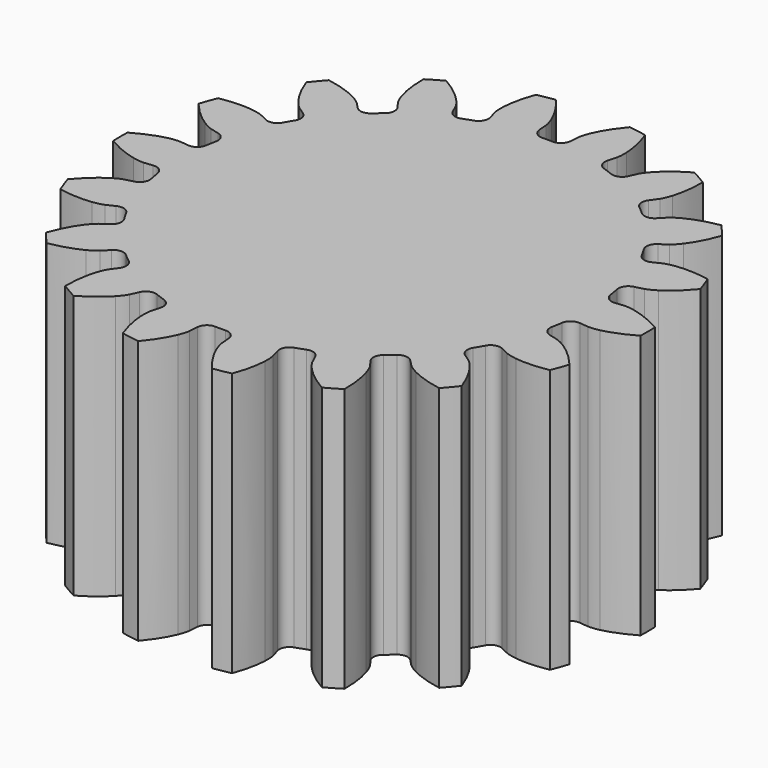
from build123d import *

# Parameters (mm, degrees)
PAD_DEPTH = 15


with BuildPart() as part:
    # InvoluteGear → Pad (new body)
    with BuildSketch(Plane.XY):
        with BuildLine():
            Line((12.131404, -1.243807), (12.645761, -1.295402))
            add(Edge.make_bspline(
                [(12.645761, -1.295402), (12.714302, -1.298033), (12.920518, -1.29727), (13.264938, -1.221824)],
                knots=[0, 0, 0, 0, 1, 1, 1, 1], degree=3))
            add(Edge.make_bspline(
                [(13.264938, -1.221824), (13.676607, -1.130119), (14.26795, -0.932555), (14.993012, -0.510488)],
                knots=[0, 0, 0, 0, 1, 1, 1, 1], degree=3))
            ThreePointArc((14.993012, -0.510488), (15.000851, 0.000345), (14.991288, 0.511149))
            add(Edge.make_bspline(
                [(14.991288, 0.511149), (14.26795, 0.932555), (13.676607, 1.130119), (13.264938, 1.221824)],
                knots=[0, 0, 0, 0, 1, 1, 1, 1], degree=3))
            add(Edge.make_bspline(
                [(13.264938, 1.221824), (12.920518, 1.29727), (12.714302, 1.298033), (12.645761, 1.295402)],
                knots=[0, 0, 0, 0, 1, 1, 1, 1], degree=3))
            Line((12.645761, 1.295402), (12.131404, 1.243807))
            ThreePointArc((12.131404, 1.243807), (11.716085, 1.354788), (11.496407, 1.724313))
            ThreePointArc((11.496407, 1.724313), (11.44839, 2.01866), (11.392838, 2.311679))
            ThreePointArc((11.392838, 2.311679), (11.472883, 2.734053), (11.825198, 2.980389))
            Line((11.825198, 2.980389), (12.326182, 3.107825))
            add(Edge.make_bspline(
                [(12.326182, 3.107825), (12.391489, 3.128796), (12.585008, 3.200042), (12.882853, 3.388737)],
                knots=[0, 0, 0, 0, 1, 1, 1, 1], degree=3))
            add(Edge.make_bspline(
                [(12.882853, 3.388737), (13.238331, 3.615711), (13.72644, 4.003611), (14.26342, 4.64821)],
                knots=[0, 0, 0, 0, 1, 1, 1, 1], degree=3))
            ThreePointArc((14.26342, 4.64821), (14.096071, 5.130917), (13.91238, 5.607645))
            add(Edge.make_bspline(
                [(13.91238, 5.607645), (13.088535, 5.756242), (12.465284, 5.73964), (12.047076, 5.685015)],
                knots=[0, 0, 0, 0, 1, 1, 1, 1], degree=3))
            add(Edge.make_bspline(
                [(12.047076, 5.685015), (11.697623, 5.638113), (11.503582, 5.568299), (11.440074, 5.542385)],
                knots=[0, 0, 0, 0, 1, 1, 1, 1], degree=3))
            Line((11.440074, 5.542385), (10.974384, 5.317981))
            ThreePointArc((10.974384, 5.317981), (10.546154, 5.280221), (10.213339, 5.552327))
            ThreePointArc((10.213339, 5.552327), (10.067545, 5.8125), (9.915125, 6.068848))
            ThreePointArc((9.915125, 6.068848), (9.845883, 6.493126), (10.092698, 6.845105))
            Line((10.092698, 6.845105), (10.519883, 7.136202))
            add(Edge.make_bspline(
                [(10.519883, 7.136202), (10.57408, 7.178245), (10.73156, 7.311383), (10.946905, 7.590566)],
                knots=[0, 0, 0, 0, 1, 1, 1, 1], degree=3))
            add(Edge.make_bspline(
                [(10.946905, 7.590566), (11.203316, 7.925433), (11.529319, 8.456883), (11.813449, 9.246266)],
                knots=[0, 0, 0, 0, 1, 1, 1, 1], degree=3))
            ThreePointArc((11.813449, 9.246266), (11.491096, 9.642625), (11.155433, 10.027777))
            add(Edge.make_bspline(
                [(11.155433, 10.027777), (10.330449, 9.885641), (9.750463, 9.656875), (9.376159, 9.462509)],
                knots=[0, 0, 0, 0, 1, 1, 1, 1], degree=3))
            add(Edge.make_bspline(
                [(9.376159, 9.462509), (9.063822, 9.298916), (8.905361, 9.166947), (8.854546, 9.120874)],
                knots=[0, 0, 0, 0, 1, 1, 1, 1], degree=3))
            Line((8.854546, 9.120874), (8.493691, 8.750728))
            ThreePointArc((8.493691, 8.750728), (8.104201, 8.568782), (7.698392, 8.710648))
            ThreePointArc((7.698392, 8.710648), (7.472406, 8.905267), (7.241502, 9.094024))
            ThreePointArc((7.241502, 9.094024), (7.031323, 9.469033), (7.14287, 9.884201))
            Line((7.14287, 9.884201), (7.444732, 10.303849))
            add(Edge.make_bspline(
                [(7.444732, 10.303849), (7.48128, 10.361892), (7.583728, 10.540862), (7.690599, 10.876861)],
                knots=[0, 0, 0, 0, 1, 1, 1, 1], degree=3))
            add(Edge.make_bspline(
                [(7.690599, 10.876861), (7.817015, 11.27923), (7.941592, 11.89013), (7.938602, 12.729085)],
                knots=[0, 0, 0, 0, 1, 1, 1, 1], degree=3))
            ThreePointArc((7.938602, 12.729085), (7.500126, 12.99129), (7.052976, 13.238411))
            add(Edge.make_bspline(
                [(7.052976, 13.238411), (6.326359, 12.822685), (5.859592, 12.409349), (5.574338, 12.098685)],
                knots=[0, 0, 0, 0, 1, 1, 1, 1], degree=3))
            add(Edge.make_bspline(
                [(5.574338, 12.098685), (5.33679, 11.838132), (5.233022, 11.659925), (5.201029, 11.599251)],
                knots=[0, 0, 0, 0, 1, 1, 1, 1], degree=3))
            Line((5.201029, 11.599251), (4.988534, 11.128008))
            ThreePointArc((4.988534, 11.128008), (4.684762, 10.823821), (4.254905, 10.818337))
            ThreePointArc((4.254905, 10.818337), (3.975984, 10.923927), (3.694447, 11.022327))
            ThreePointArc((3.694447, 11.022327), (3.368682, 11.302835), (3.331507, 11.731116))
            Line((3.331507, 11.731116), (3.471636, 12.228699))
            add(Edge.make_bspline(
                [(3.471636, 12.228699), (3.486128, 12.295742), (3.521186, 12.498958), (3.506694, 12.851246)],
                knots=[0, 0, 0, 0, 1, 1, 1, 1], degree=3))
            add(Edge.make_bspline(
                [(3.506694, 12.851246), (3.487868, 13.272586), (3.395991, 13.889252), (3.106242, 14.676589)],
                knots=[0, 0, 0, 0, 1, 1, 1, 1], degree=3))
            ThreePointArc((3.106242, 14.676589), (2.604531, 14.773014), (2.099827, 14.852297))
            add(Edge.make_bspline(
                [(2.099827, 14.852297), (1.559216, 14.213125), (1.261968, 13.665072), (1.100171, 13.275581)],
                knots=[0, 0, 0, 0, 1, 1, 1, 1], degree=3))
            add(Edge.make_bspline(
                [(1.100171, 13.275581), (0.966063, 12.949495), (0.929503, 12.746544), (0.920191, 12.678587)],
                knots=[0, 0, 0, 0, 1, 1, 1, 1], degree=3))
            Line((0.920191, 12.678587), (0.881686, 12.163086))
            ThreePointArc((0.881686, 12.163086), (0.700271, 11.773348), (0.298214, 11.621174))
            ThreePointArc((0.298214, 11.621174), (0, 11.625), (-0.298214, 11.621174))
            ThreePointArc((-0.298214, 11.621174), (-0.700271, 11.773348), (-0.881686, 12.163086))
            Line((-0.881686, 12.163086), (-0.920191, 12.678587))
            add(Edge.make_bspline(
                [(-0.920191, 12.678587), (-0.929503, 12.746544), (-0.966063, 12.949495), (-1.100171, 13.275581)],
                knots=[0, 0, 0, 0, 1, 1, 1, 1], degree=3))
            add(Edge.make_bspline(
                [(-1.100171, 13.275581), (-1.261968, 13.665072), (-1.559216, 14.213125), (-2.100777, 14.85388)],
                knots=[0, 0, 0, 0, 1, 1, 1, 1], degree=3))
            ThreePointArc((-2.100777, 14.85388), (-2.60521, 14.772894), (-3.106593, 14.674777))
            add(Edge.make_bspline(
                [(-3.106593, 14.674777), (-3.395991, 13.889252), (-3.487868, 13.272586), (-3.506694, 12.851246)],
                knots=[0, 0, 0, 0, 1, 1, 1, 1], degree=3))
            add(Edge.make_bspline(
                [(-3.506694, 12.851246), (-3.521186, 12.498958), (-3.486128, 12.295742), (-3.471636, 12.228699)],
                knots=[0, 0, 0, 0, 1, 1, 1, 1], degree=3))
            Line((-3.471636, 12.228699), (-3.331507, 11.731116))
            ThreePointArc((-3.331507, 11.731116), (-3.368682, 11.302835), (-3.694447, 11.022327))
            ThreePointArc((-3.694447, 11.022327), (-3.975984, 10.923927), (-4.254905, 10.818337))
            ThreePointArc((-4.254905, 10.818337), (-4.684762, 10.823821), (-4.988534, 11.128008))
            Line((-4.988534, 11.128008), (-5.201029, 11.599251))
            add(Edge.make_bspline(
                [(-5.201029, 11.599251), (-5.233022, 11.659925), (-5.33679, 11.838132), (-5.574338, 12.098685)],
                knots=[0, 0, 0, 0, 1, 1, 1, 1], degree=3))
            add(Edge.make_bspline(
                [(-5.574338, 12.098685), (-5.859592, 12.409349), (-6.326359, 12.822685), (-7.05441, 13.239573)],
                knots=[0, 0, 0, 0, 1, 1, 1, 1], degree=3))
            ThreePointArc((-7.05441, 13.239573), (-7.500724, 12.990945), (-7.938312, 12.727262))
            add(Edge.make_bspline(
                [(-7.938312, 12.727262), (-7.941592, 11.89013), (-7.817015, 11.27923), (-7.690599, 10.876861)],
                knots=[0, 0, 0, 0, 1, 1, 1, 1], degree=3))
            add(Edge.make_bspline(
                [(-7.690599, 10.876861), (-7.583728, 10.540862), (-7.48128, 10.361892), (-7.444732, 10.303849)],
                knots=[0, 0, 0, 0, 1, 1, 1, 1], degree=3))
            Line((-7.444732, 10.303849), (-7.14287, 9.884201))
            ThreePointArc((-7.14287, 9.884201), (-7.031323, 9.469033), (-7.241502, 9.094024))
            ThreePointArc((-7.241502, 9.094024), (-7.472406, 8.905267), (-7.698392, 8.710648))
            ThreePointArc((-7.698392, 8.710648), (-8.104201, 8.568782), (-8.493691, 8.750728))
            Line((-8.493691, 8.750728), (-8.854546, 9.120874))
            add(Edge.make_bspline(
                [(-8.854546, 9.120874), (-8.905361, 9.166947), (-9.063822, 9.298916), (-9.376159, 9.462509)],
                knots=[0, 0, 0, 0, 1, 1, 1, 1], degree=3))
            add(Edge.make_bspline(
                [(-9.376159, 9.462509), (-9.750463, 9.656875), (-10.330449, 9.885641), (-11.157178, 10.028379)],
                knots=[0, 0, 0, 0, 1, 1, 1, 1], degree=3))
            ThreePointArc((-11.157178, 10.028379), (-11.49154, 9.642097), (-11.812553, 9.244652))
            add(Edge.make_bspline(
                [(-11.812553, 9.244652), (-11.529319, 8.456883), (-11.203316, 7.925433), (-10.946905, 7.590566)],
                knots=[0, 0, 0, 0, 1, 1, 1, 1], degree=3))
            add(Edge.make_bspline(
                [(-10.946905, 7.590566), (-10.73156, 7.311383), (-10.57408, 7.178245), (-10.519883, 7.136202)],
                knots=[0, 0, 0, 0, 1, 1, 1, 1], degree=3))
            Line((-10.519883, 7.136202), (-10.092698, 6.845105))
            ThreePointArc((-10.092698, 6.845105), (-9.845883, 6.493126), (-9.915125, 6.068848))
            ThreePointArc((-9.915125, 6.068848), (-10.067545, 5.8125), (-10.213339, 5.552327))
            ThreePointArc((-10.213339, 5.552327), (-10.546154, 5.280221), (-10.974384, 5.317981))
            Line((-10.974384, 5.317981), (-11.440074, 5.542385))
            add(Edge.make_bspline(
                [(-11.440074, 5.542385), (-11.503582, 5.568299), (-11.697623, 5.638113), (-12.047076, 5.685015)],
                knots=[0, 0, 0, 0, 1, 1, 1, 1], degree=3))
            add(Edge.make_bspline(
                [(-12.047076, 5.685015), (-12.465284, 5.73964), (-13.088535, 5.756242), (-13.914226, 5.607614)],
                knots=[0, 0, 0, 0, 1, 1, 1, 1], degree=3))
            ThreePointArc((-13.914226, 5.607614), (-14.096307, 5.130269), (-14.262026, 4.647))
            add(Edge.make_bspline(
                [(-14.262026, 4.647), (-13.72644, 4.003611), (-13.238331, 3.615711), (-12.882853, 3.388737)],
                knots=[0, 0, 0, 0, 1, 1, 1, 1], degree=3))
            add(Edge.make_bspline(
                [(-12.882853, 3.388737), (-12.585008, 3.200042), (-12.391489, 3.128796), (-12.326182, 3.107825)],
                knots=[0, 0, 0, 0, 1, 1, 1, 1], degree=3))
            Line((-12.326182, 3.107825), (-11.825198, 2.980389))
            ThreePointArc((-11.825198, 2.980389), (-11.472883, 2.734053), (-11.392838, 2.311679))
            ThreePointArc((-11.392838, 2.311679), (-11.44839, 2.01866), (-11.496407, 1.724313))
            ThreePointArc((-11.496407, 1.724313), (-11.716085, 1.354788), (-12.131404, 1.243807))
            Line((-12.131404, 1.243807), (-12.645761, 1.295402))
            add(Edge.make_bspline(
                [(-12.645761, 1.295402), (-12.714302, 1.298033), (-12.920518, 1.29727), (-13.264938, 1.221824)],
                knots=[0, 0, 0, 0, 1, 1, 1, 1], degree=3))
            add(Edge.make_bspline(
                [(-13.264938, 1.221824), (-13.676607, 1.130119), (-14.26795, 0.932555), (-14.993012, 0.510488)],
                knots=[0, 0, 0, 0, 1, 1, 1, 1], degree=3))
            ThreePointArc((-14.993012, 0.510488), (-15.000851, -0.000345), (-14.991288, -0.511149))
            add(Edge.make_bspline(
                [(-14.991288, -0.511149), (-14.26795, -0.932555), (-13.676607, -1.130119), (-13.264938, -1.221824)],
                knots=[0, 0, 0, 0, 1, 1, 1, 1], degree=3))
            add(Edge.make_bspline(
                [(-13.264938, -1.221824), (-12.920518, -1.29727), (-12.714302, -1.298033), (-12.645761, -1.295402)],
                knots=[0, 0, 0, 0, 1, 1, 1, 1], degree=3))
            Line((-12.645761, -1.295402), (-12.131404, -1.243807))
            ThreePointArc((-12.131404, -1.243807), (-11.716085, -1.354788), (-11.496407, -1.724313))
            ThreePointArc((-11.496407, -1.724313), (-11.44839, -2.01866), (-11.392838, -2.311679))
            ThreePointArc((-11.392838, -2.311679), (-11.472883, -2.734053), (-11.825198, -2.980389))
            Line((-11.825198, -2.980389), (-12.326182, -3.107825))
            add(Edge.make_bspline(
                [(-12.326182, -3.107825), (-12.391489, -3.128796), (-12.585008, -3.200042), (-12.882853, -3.388737)],
                knots=[0, 0, 0, 0, 1, 1, 1, 1], degree=3))
            add(Edge.make_bspline(
                [(-12.882853, -3.388737), (-13.238331, -3.615711), (-13.72644, -4.003611), (-14.26342, -4.64821)],
                knots=[0, 0, 0, 0, 1, 1, 1, 1], degree=3))
            ThreePointArc((-14.26342, -4.64821), (-14.096071, -5.130917), (-13.91238, -5.607645))
            add(Edge.make_bspline(
                [(-13.91238, -5.607645), (-13.088535, -5.756242), (-12.465284, -5.73964), (-12.047076, -5.685015)],
                knots=[0, 0, 0, 0, 1, 1, 1, 1], degree=3))
            add(Edge.make_bspline(
                [(-12.047076, -5.685015), (-11.697623, -5.638113), (-11.503582, -5.568299), (-11.440074, -5.542385)],
                knots=[0, 0, 0, 0, 1, 1, 1, 1], degree=3))
            Line((-11.440074, -5.542385), (-10.974384, -5.317981))
            ThreePointArc((-10.974384, -5.317981), (-10.546154, -5.280221), (-10.213339, -5.552327))
            ThreePointArc((-10.213339, -5.552327), (-10.067545, -5.8125), (-9.915125, -6.068848))
            ThreePointArc((-9.915125, -6.068848), (-9.845883, -6.493126), (-10.092698, -6.845105))
            Line((-10.092698, -6.845105), (-10.519883, -7.136202))
            add(Edge.make_bspline(
                [(-10.519883, -7.136202), (-10.57408, -7.178245), (-10.73156, -7.311383), (-10.946905, -7.590566)],
                knots=[0, 0, 0, 0, 1, 1, 1, 1], degree=3))
            add(Edge.make_bspline(
                [(-10.946905, -7.590566), (-11.203316, -7.925433), (-11.529319, -8.456883), (-11.813449, -9.246266)],
                knots=[0, 0, 0, 0, 1, 1, 1, 1], degree=3))
            ThreePointArc((-11.813449, -9.246266), (-11.491096, -9.642625), (-11.155433, -10.027777))
            add(Edge.make_bspline(
                [(-11.155433, -10.027777), (-10.330449, -9.885641), (-9.750463, -9.656875), (-9.376159, -9.462509)],
                knots=[0, 0, 0, 0, 1, 1, 1, 1], degree=3))
            add(Edge.make_bspline(
                [(-9.376159, -9.462509), (-9.063822, -9.298916), (-8.905361, -9.166947), (-8.854546, -9.120874)],
                knots=[0, 0, 0, 0, 1, 1, 1, 1], degree=3))
            Line((-8.854546, -9.120874), (-8.493691, -8.750728))
            ThreePointArc((-8.493691, -8.750728), (-8.104201, -8.568782), (-7.698392, -8.710648))
            ThreePointArc((-7.698392, -8.710648), (-7.472406, -8.905267), (-7.241502, -9.094024))
            ThreePointArc((-7.241502, -9.094024), (-7.031323, -9.469033), (-7.14287, -9.884201))
            Line((-7.14287, -9.884201), (-7.444732, -10.303849))
            add(Edge.make_bspline(
                [(-7.444732, -10.303849), (-7.48128, -10.361892), (-7.583728, -10.540862), (-7.690599, -10.876861)],
                knots=[0, 0, 0, 0, 1, 1, 1, 1], degree=3))
            add(Edge.make_bspline(
                [(-7.690599, -10.876861), (-7.817015, -11.27923), (-7.941592, -11.89013), (-7.938602, -12.729085)],
                knots=[0, 0, 0, 0, 1, 1, 1, 1], degree=3))
            ThreePointArc((-7.938602, -12.729085), (-7.500126, -12.99129), (-7.052976, -13.238411))
            add(Edge.make_bspline(
                [(-7.052976, -13.238411), (-6.326359, -12.822685), (-5.859592, -12.409349), (-5.574338, -12.098685)],
                knots=[0, 0, 0, 0, 1, 1, 1, 1], degree=3))
            add(Edge.make_bspline(
                [(-5.574338, -12.098685), (-5.33679, -11.838132), (-5.233022, -11.659925), (-5.201029, -11.599251)],
                knots=[0, 0, 0, 0, 1, 1, 1, 1], degree=3))
            Line((-5.201029, -11.599251), (-4.988534, -11.128008))
            ThreePointArc((-4.988534, -11.128008), (-4.684762, -10.823821), (-4.254905, -10.818337))
            ThreePointArc((-4.254905, -10.818337), (-3.975984, -10.923927), (-3.694447, -11.022327))
            ThreePointArc((-3.694447, -11.022327), (-3.368682, -11.302835), (-3.331507, -11.731116))
            Line((-3.331507, -11.731116), (-3.471636, -12.228699))
            add(Edge.make_bspline(
                [(-3.471636, -12.228699), (-3.486128, -12.295742), (-3.521186, -12.498958), (-3.506694, -12.851246)],
                knots=[0, 0, 0, 0, 1, 1, 1, 1], degree=3))
            add(Edge.make_bspline(
                [(-3.506694, -12.851246), (-3.487868, -13.272586), (-3.395991, -13.889252), (-3.106242, -14.676589)],
                knots=[0, 0, 0, 0, 1, 1, 1, 1], degree=3))
            ThreePointArc((-3.106242, -14.676589), (-2.604531, -14.773014), (-2.099827, -14.852297))
            add(Edge.make_bspline(
                [(-2.099827, -14.852297), (-1.559216, -14.213125), (-1.261968, -13.665072), (-1.100171, -13.275581)],
                knots=[0, 0, 0, 0, 1, 1, 1, 1], degree=3))
            add(Edge.make_bspline(
                [(-1.100171, -13.275581), (-0.966063, -12.949495), (-0.929503, -12.746544), (-0.920191, -12.678587)],
                knots=[0, 0, 0, 0, 1, 1, 1, 1], degree=3))
            Line((-0.920191, -12.678587), (-0.881686, -12.163086))
            ThreePointArc((-0.881686, -12.163086), (-0.700271, -11.773348), (-0.298214, -11.621174))
            ThreePointArc((-0.298214, -11.621174), (0, -11.625), (0.298214, -11.621174))
            ThreePointArc((0.298214, -11.621174), (0.700271, -11.773348), (0.881686, -12.163086))
            Line((0.881686, -12.163086), (0.920191, -12.678587))
            add(Edge.make_bspline(
                [(0.920191, -12.678587), (0.929503, -12.746544), (0.966063, -12.949495), (1.100171, -13.275581)],
                knots=[0, 0, 0, 0, 1, 1, 1, 1], degree=3))
            add(Edge.make_bspline(
                [(1.100171, -13.275581), (1.261968, -13.665072), (1.559216, -14.213125), (2.100777, -14.85388)],
                knots=[0, 0, 0, 0, 1, 1, 1, 1], degree=3))
            ThreePointArc((2.100777, -14.85388), (2.60521, -14.772894), (3.106593, -14.674777))
            add(Edge.make_bspline(
                [(3.106593, -14.674777), (3.395991, -13.889252), (3.487868, -13.272586), (3.506694, -12.851246)],
                knots=[0, 0, 0, 0, 1, 1, 1, 1], degree=3))
            add(Edge.make_bspline(
                [(3.506694, -12.851246), (3.521186, -12.498958), (3.486128, -12.295742), (3.471636, -12.228699)],
                knots=[0, 0, 0, 0, 1, 1, 1, 1], degree=3))
            Line((3.471636, -12.228699), (3.331507, -11.731116))
            ThreePointArc((3.331507, -11.731116), (3.368682, -11.302835), (3.694447, -11.022327))
            ThreePointArc((3.694447, -11.022327), (3.975984, -10.923927), (4.254905, -10.818337))
            ThreePointArc((4.254905, -10.818337), (4.684762, -10.823821), (4.988534, -11.128008))
            Line((4.988534, -11.128008), (5.201029, -11.599251))
            add(Edge.make_bspline(
                [(5.201029, -11.599251), (5.233022, -11.659925), (5.33679, -11.838132), (5.574338, -12.098685)],
                knots=[0, 0, 0, 0, 1, 1, 1, 1], degree=3))
            add(Edge.make_bspline(
                [(5.574338, -12.098685), (5.859592, -12.409349), (6.326359, -12.822685), (7.05441, -13.239573)],
                knots=[0, 0, 0, 0, 1, 1, 1, 1], degree=3))
            ThreePointArc((7.05441, -13.239573), (7.500724, -12.990945), (7.938312, -12.727262))
            add(Edge.make_bspline(
                [(7.938312, -12.727262), (7.941592, -11.89013), (7.817015, -11.27923), (7.690599, -10.876861)],
                knots=[0, 0, 0, 0, 1, 1, 1, 1], degree=3))
            add(Edge.make_bspline(
                [(7.690599, -10.876861), (7.583728, -10.540862), (7.48128, -10.361892), (7.444732, -10.303849)],
                knots=[0, 0, 0, 0, 1, 1, 1, 1], degree=3))
            Line((7.444732, -10.303849), (7.14287, -9.884201))
            ThreePointArc((7.14287, -9.884201), (7.031323, -9.469033), (7.241502, -9.094024))
            ThreePointArc((7.241502, -9.094024), (7.472406, -8.905267), (7.698392, -8.710648))
            ThreePointArc((7.698392, -8.710648), (8.104201, -8.568782), (8.493691, -8.750728))
            Line((8.493691, -8.750728), (8.854546, -9.120874))
            add(Edge.make_bspline(
                [(8.854546, -9.120874), (8.905361, -9.166947), (9.063822, -9.298916), (9.376159, -9.462509)],
                knots=[0, 0, 0, 0, 1, 1, 1, 1], degree=3))
            add(Edge.make_bspline(
                [(9.376159, -9.462509), (9.750463, -9.656875), (10.330449, -9.885641), (11.157178, -10.028379)],
                knots=[0, 0, 0, 0, 1, 1, 1, 1], degree=3))
            ThreePointArc((11.157178, -10.028379), (11.49154, -9.642097), (11.812553, -9.244652))
            add(Edge.make_bspline(
                [(11.812553, -9.244652), (11.529319, -8.456883), (11.203316, -7.925433), (10.946905, -7.590566)],
                knots=[0, 0, 0, 0, 1, 1, 1, 1], degree=3))
            add(Edge.make_bspline(
                [(10.946905, -7.590566), (10.73156, -7.311383), (10.57408, -7.178245), (10.519883, -7.136202)],
                knots=[0, 0, 0, 0, 1, 1, 1, 1], degree=3))
            Line((10.519883, -7.136202), (10.092698, -6.845105))
            ThreePointArc((10.092698, -6.845105), (9.845883, -6.493126), (9.915125, -6.068848))
            ThreePointArc((9.915125, -6.068848), (10.067545, -5.8125), (10.213339, -5.552327))
            ThreePointArc((10.213339, -5.552327), (10.546154, -5.280221), (10.974384, -5.317981))
            Line((10.974384, -5.317981), (11.440074, -5.542385))
            add(Edge.make_bspline(
                [(11.440074, -5.542385), (11.503582, -5.568299), (11.697623, -5.638113), (12.047076, -5.685015)],
                knots=[0, 0, 0, 0, 1, 1, 1, 1], degree=3))
            add(Edge.make_bspline(
                [(12.047076, -5.685015), (12.465284, -5.73964), (13.088535, -5.756242), (13.914226, -5.607614)],
                knots=[0, 0, 0, 0, 1, 1, 1, 1], degree=3))
            ThreePointArc((13.914226, -5.607614), (14.096307, -5.130269), (14.262026, -4.647))
            add(Edge.make_bspline(
                [(14.262026, -4.647), (13.72644, -4.003611), (13.238331, -3.615711), (12.882853, -3.388737)],
                knots=[0, 0, 0, 0, 1, 1, 1, 1], degree=3))
            add(Edge.make_bspline(
                [(12.882853, -3.388737), (12.585008, -3.200042), (12.391489, -3.128796), (12.326182, -3.107825)],
                knots=[0, 0, 0, 0, 1, 1, 1, 1], degree=3))
            Line((12.326182, -3.107825), (11.825198, -2.980389))
            ThreePointArc((11.825198, -2.980389), (11.472883, -2.734053), (11.392838, -2.311679))
            ThreePointArc((11.392838, -2.311679), (11.44839, -2.01866), (11.496407, -1.724313))
            ThreePointArc((11.496407, -1.724313), (11.716085, -1.354788), (12.131404, -1.243807))
        make_face()
    extrude(amount=PAD_DEPTH)


solid = part.part
